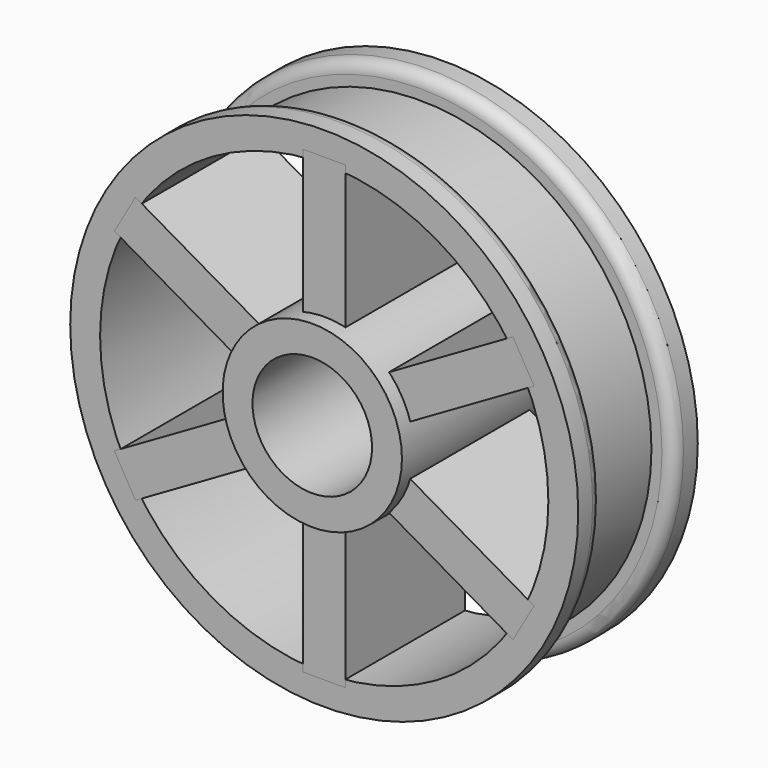
from build123d import *

# Parameters (mm, degrees)
F0_R      = 215.9
F0_R_2    = 190.5
F1_DEPTH  = 127
F2_R      = 76.2
F2_R_2    = 50.8
F3_DEPTH  = 139.7
F4_DEPTH  = 12.7
F5_W      = 35.9664
F5_H      = 144.78
F6_DEPTH  = 127
F8_R      = 227.2009340042
F8_R_2    = 196.85
F9_DEPTH  = 38.1
F10_R     = 223.6574457884
F10_R_2   = 196.85
F11_DEPTH = 38.1
F12_R     = 10.16


with BuildPart() as f1:
    # F0 (on Front) → F1 (new body)
    with BuildSketch(Plane.XZ):
        Circle(F0_R)
        Circle(F0_R_2, mode=Mode.SUBTRACT)
    extrude(amount=F1_DEPTH)

    # F8 (on offset) → F9 (cut)
    with BuildSketch(Plane.XZ.offset(63.5)):
        Circle(F8_R)
        Circle(F8_R_2, mode=Mode.SUBTRACT)
    extrude(amount=F9_DEPTH, mode=Mode.SUBTRACT)

    # F10 (on offset) → F11 (cut)
    with BuildSketch(Plane.XZ.offset(63.5)):
        Circle(F10_R)
        Circle(F10_R_2, mode=Mode.SUBTRACT)
    extrude(amount=-F11_DEPTH, mode=Mode.SUBTRACT)

    # F12
    f12_edges = [f1.edges().sort_by_distance(p)[0] for p in [
        (-215.9, -101.6, 0),
        (-215.9, -25.4, 0),
    ]]
    fillet(f12_edges, radius=F12_R)


with BuildPart() as f3:
    # F2 (on Front) → F3 (new body)
    with BuildSketch(Plane.XZ):
        Circle(F2_R)
        Circle(F2_R_2, mode=Mode.SUBTRACT)
    extrude(amount=F3_DEPTH)

    # F4 (add): a face of the model
    f4_faces = [f3.faces().sort_by_distance(p)[0] for p in [
        (-74.0447385309, 0, 0),
    ]]
    extrude(f4_faces, amount=F4_DEPTH)


with BuildPart() as f6:
    # F5 (on Front) → F6 (new body)
    with BuildSketch(Plane.XZ):
        with Locations((0, 123.19)):
            Rectangle(F5_W, F5_H)
    extrude(amount=F6_DEPTH)


with BuildPart() as f6b:
    # F5 (on Front) → F6, piece 2 (new body)
    with BuildSketch(Plane.XZ):
        Polygon((-35.0024905122, 40.9739080413), (-160.3856484722, 113.3639080413), (-178.3688484722, 82.2160919587), (-52.9856905122, 9.8260919587), align=None)
    extrude(amount=F6_DEPTH)


with BuildPart() as f6c:
    # F5 (on Front) → F6, piece 3 (new body)
    with BuildSketch(Plane.XZ):
        Polygon((-52.9856905122, -9.8260919587), (-178.3688484722, -82.2160919587), (-160.3856484722, -113.3639080413), (-35.0024905122, -40.9739080413), align=None)
    extrude(amount=F6_DEPTH)


with BuildPart() as f6d:
    # F5 (on Front) → F6, piece 4 (new body)
    with BuildSketch(Plane.XZ):
        with Locations((0, -123.19)):
            Rectangle(F5_W, F5_H)
    extrude(amount=F6_DEPTH)


with BuildPart() as f6e:
    # F5 (on Front) → F6, piece 5 (new body)
    with BuildSketch(Plane.XZ):
        Polygon((35.0024905122, -40.9739080413), (160.3856484722, -113.3639080413), (178.3688484722, -82.2160919587), (52.9856905122, -9.8260919587), align=None)
    extrude(amount=F6_DEPTH)


with BuildPart() as f6f:
    # F5 (on Front) → F6, piece 6 (new body)
    with BuildSketch(Plane.XZ):
        Polygon((52.9856905122, 9.8260919587), (178.3688484722, 82.2160919587), (160.3856484722, 113.3639080413), (35.0024905122, 40.9739080413), align=None)
    extrude(amount=F6_DEPTH)


solid = Compound([f1.part, f3.part, f6.part, f6b.part, f6c.part, f6d.part, f6e.part, f6f.part])
